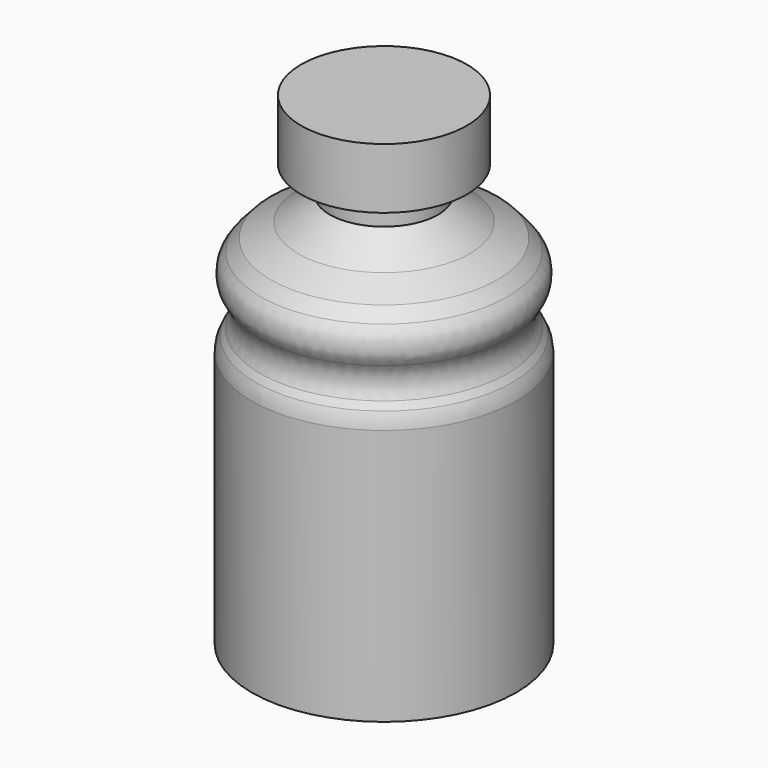
from build123d import *

# Parameters (mm, degrees)
F2_R = 5.08
F3_R = 5.08


with BuildPart() as f1:
    # F0 (on Front) → F1 (revolve)
    with BuildSketch(Plane.XZ):
        Polygon((0, -27.148815), (0, 59.899766), (-14.939032, 59.899766), (-14.939032, 48.982784), (-9.767827, 48.982784), (-9.767827, 44.098869), (-15.51361, 39.789535), (-20.397522, 37.203934), (-25.558326, 31.527043), (-20.110233, 26.574237), (-23.844991, 20.541167), (-23.844991, -4.165691), (-23.844991, -27.148815), align=None)
    revolve(axis=Axis((0, 0, 16.375476), (0, 0, 1)))

    # F2
    f2_edges = [f1.edges().sort_by_distance(p)[0] for p in [
        (20.110233, 0, 26.574237),
        (23.844991, 0, 20.541167),
        (-21.977612, 0, 23.557702),
    ]]
    fillet(f2_edges, radius=F2_R)

    # F3
    f3_edges = [f1.edges().sort_by_distance(p)[0] for p in [
        (25.558326, 0, 31.527043),
    ]]
    fillet(f3_edges, radius=F3_R)


solid = f1.part
